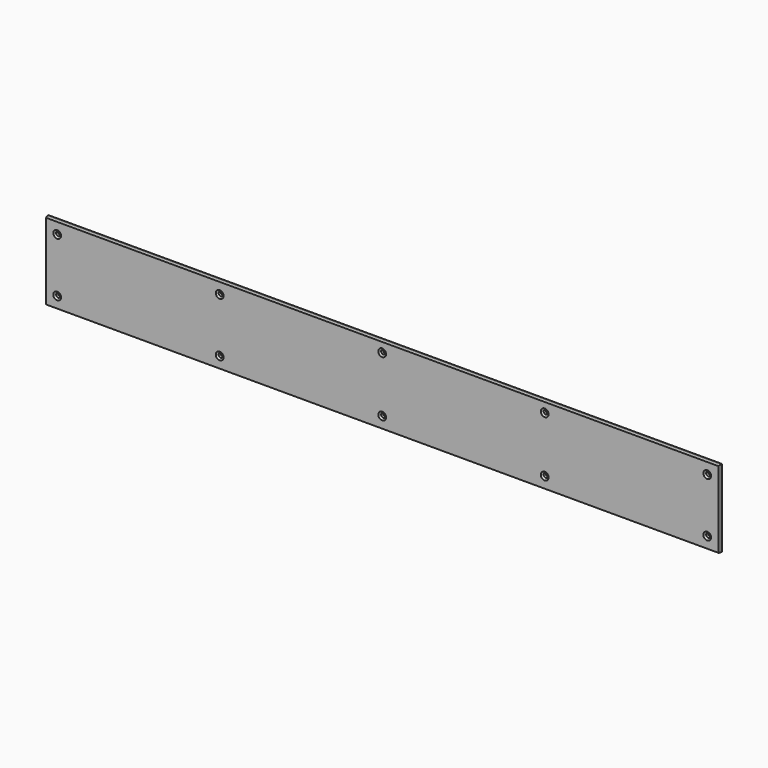
from build123d import *

# Parameters (mm, degrees)
F0_W           = 552.45
F0_H           = 63.5
F0_R           = 1.63195
F1_DEPTH       = 3.175
F3_D           = 3.5687
F3_CSINK_D     = 6.35
F3_CSINK_ANGLE = 100
F4_SIZE2       = 1.5875
F4_SIZE        = 0.425369343


with BuildPart() as f1:
    # F0 (on Front) → F1 (new body)
    with BuildSketch(Plane.XZ):
        Rectangle(F0_W, F0_H)
        with Locations((-266.7, -22.225)):
            Circle(F0_R, mode=Mode.SUBTRACT)
        with Locations((-131.445, -22.225)):
            Circle(F0_R, mode=Mode.SUBTRACT)
        with Locations((0, -22.225)):
            Circle(F0_R, mode=Mode.SUBTRACT)
        with Locations((130.175, -22.225)):
            Circle(F0_R, mode=Mode.SUBTRACT)
        with Locations((266.7, -22.225)):
            Circle(F0_R, mode=Mode.SUBTRACT)
        with Locations((-266.7, 22.225)):
            Circle(F0_R, mode=Mode.SUBTRACT)
        with Locations((-131.445, 22.225)):
            Circle(F0_R, mode=Mode.SUBTRACT)
        with Locations((0, 23.495)):
            Circle(F0_R, mode=Mode.SUBTRACT)
        with Locations((130.175, 23.495)):
            Circle(F0_R, mode=Mode.SUBTRACT)
        with Locations((266.7, 22.225)):
            Circle(F0_R, mode=Mode.SUBTRACT)
        with Locations((-266.7, 22.225)):
            Circle(F0_R)
        with Locations((-131.445, 22.225)):
            Circle(F0_R)
        with Locations((0, 23.495)):
            Circle(F0_R)
        with Locations((130.175, 23.495)):
            Circle(F0_R)
        with Locations((266.7, 22.225)):
            Circle(F0_R)
        with Locations((-266.7, -22.225)):
            Circle(F0_R)
        with Locations((-131.445, -22.225)):
            Circle(F0_R)
        with Locations((0, -22.225)):
            Circle(F0_R)
        with Locations((130.175, -22.225)):
            Circle(F0_R)
        with Locations((266.7, -22.225)):
            Circle(F0_R)
    extrude(amount=-F1_DEPTH)

    # F3 (through all)
    with Locations(Plane.XZ):
        with Locations((-266.7, 22.225), (-133.35, 22.225), (0, 23.495), (-266.7, -22.225), (-133.35, -22.225), (0, -22.225), (133.35, 23.495), (133.35, -22.225), (266.7, -22.225), (266.7, 22.225)):
            CounterSinkHole(F3_D / 2, F3_CSINK_D / 2, counter_sink_angle=F3_CSINK_ANGLE)

    # F4
    f4_edges = [f1.edges().sort_by_distance(p)[0] for p in [
        (0, 0, 31.75),
        (276.225, 0, 0),
        (0, 0, -31.75),
        (-276.225, 0, 0),
    ]]
    f4_side = f1.faces().sort_by_distance((0, 0, -0.002312))[0]
    chamfer(f4_edges, length=F4_SIZE, length2=F4_SIZE2, reference=f4_side)


solid = f1.part
